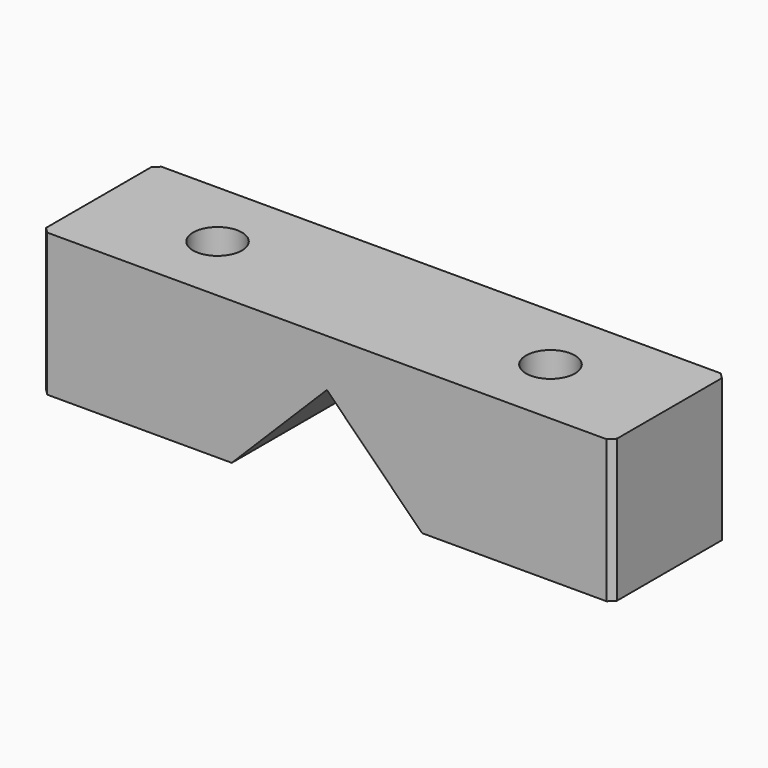
from build123d import *

# Parameters (mm, degrees)
F0_W     = 19.05
F0_H     = 19.05
F1_DEPTH = 76.2
F3_DEPTH = 25.4
F5_D     = 6.5278
F5_DEPTH = 12.7
F5_TIP   = 1.9611489744
F7_D     = 3.7973
F7_DEPTH = 12.7
F7_TIP   = 1.1408240143
F8_SIZE2 = 0.762
F8_SIZE  = 0.762


with BuildPart() as f1:
    # F0 (on Right) → F1 (new body)
    with BuildSketch(Plane.YZ):
        with Locations((-9.525, 9.525)):
            Rectangle(F0_W, F0_H)
    extrude(amount=F1_DEPTH)

    # F2 (on face) → F3 (cut)
    with BuildSketch(Plane.XZ.offset(19.05)):
        Polygon((50.8027122421, 0), (38.1, 12.7027122421), (38.1, 0), align=None)
        Polygon((38.1, 0), (38.1, 12.7027122421), (25.3972877579, 0), align=None)
    extrude(amount=-F3_DEPTH, mode=Mode.SUBTRACT)

    # F5
    with Locations(Plane.XY.offset(19.05)):
        with Locations((15.875, -9.525), (60.325, -9.525)):
            Hole(F5_D / 2, depth=F5_DEPTH)
            with Locations((0, 0, -(F5_DEPTH + F5_TIP / 2))):  # 118° drill point
                Cone(0, F5_D / 2, F5_TIP, mode=Mode.SUBTRACT)

    # F7
    with Locations(Plane(origin=(0, 0, 0), x_dir=(1, 0, 0), z_dir=(0, 0, -1))):
        with Locations((6.35, 9.525), (69.85, 9.525)):
            Hole(F7_D / 2, depth=F7_DEPTH)
            with Locations((0, 0, -(F7_DEPTH + F7_TIP / 2))):  # 118° drill point
                Cone(0, F7_D / 2, F7_TIP, mode=Mode.SUBTRACT)

    # F8
    f8_edges = [f1.edges().sort_by_distance(p)[0] for p in [
        (76.2, -19.05, 9.525),
        (76.2, 0, 9.525),
        (0, -19.05, 9.525),
        (0, 0, 9.525),
    ]]
    chamfer(f8_edges, length=F8_SIZE, length2=F8_SIZE2)


solid = f1.part
